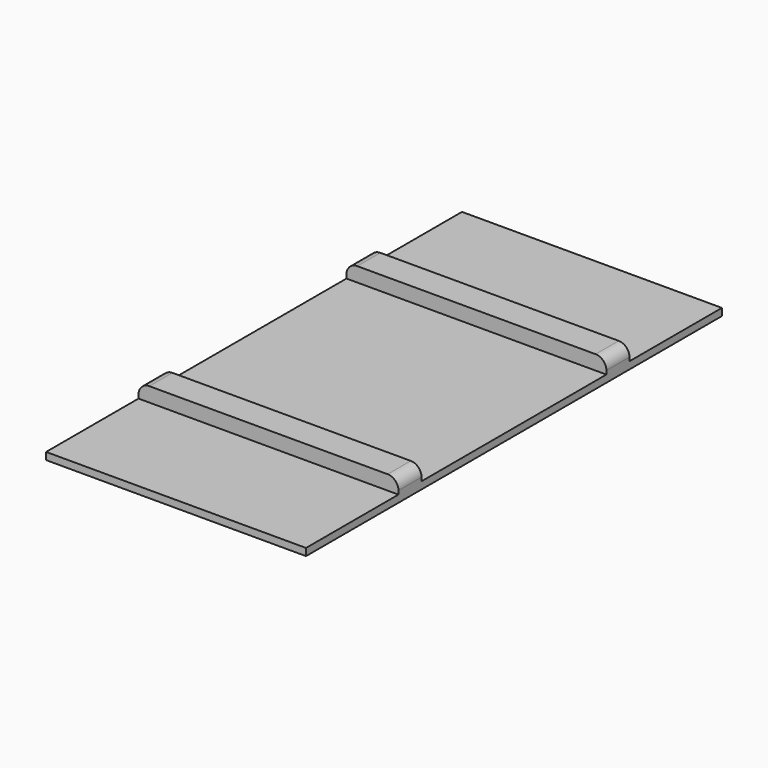
from build123d import *

# Parameters (mm, degrees)
F0_W     = 457.2
F0_H     = 914.4
F1_DEPTH = 12.7
F2_W     = 457.2
F2_H     = 50.8
F3_DEPTH = 25.4
F4_R     = 19.05


with BuildPart() as f1:
    # F0 (on Top) → F1 (new body)
    with BuildSketch(Plane.XY):
        Rectangle(F0_W, F0_H)
    extrude(amount=F1_DEPTH)

    # F2 (on face) → F3 (join)
    with BuildSketch(Plane.XY.offset(12.7)):
        with Locations((0, -228.6)):
            Rectangle(F2_W, F2_H)
        with Locations((0, 228.6)):
            Rectangle(F2_W, F2_H)
    extrude(amount=F3_DEPTH)

    # F4
    f4_edges = [f1.edges().sort_by_distance(p)[0] for p in [
        (-228.6, -228.6, 38.1),
        (228.6, -228.6, 38.1),
        (228.6, 228.6, 38.1),
        (-228.6, 228.6, 38.1),
    ]]
    fillet(f4_edges, radius=F4_R)


solid = f1.part
